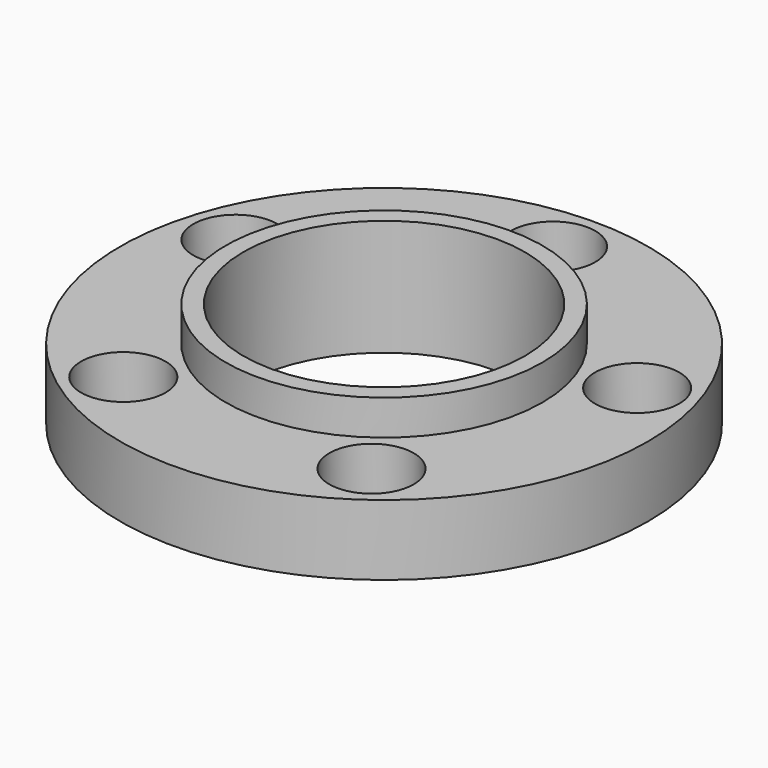
from build123d import *

# Parameters (mm, degrees)
F2_R     = 12
F3_DEPTH = 20


with BuildPart() as f1:
    # F0 (on Front) → F1 (revolve)
    with BuildSketch(Plane.XZ):
        Polygon((40, 33), (40, 0), (45, 0), (45, 3), (75, 3), (75, 23), (45, 23), (45, 33), align=None)
    revolve(axis=Axis((0, 0, 39.782755), (0, 0, 1)))

    # F2 (on face) → F3 (cut, through all)
    with BuildSketch(Plane.XY.offset(23)):
        with Locations((0, 60)):
            Circle(F2_R)
        with Locations((-57.063391, 18.54102)):
            Circle(F2_R)
        with Locations((-35.267115, -48.54102)):
            Circle(F2_R)
        with Locations((35.267115, -48.54102)):
            Circle(F2_R)
        with Locations((57.063391, 18.54102)):
            Circle(F2_R)
    extrude(amount=-F3_DEPTH, mode=Mode.SUBTRACT)


solid = f1.part
